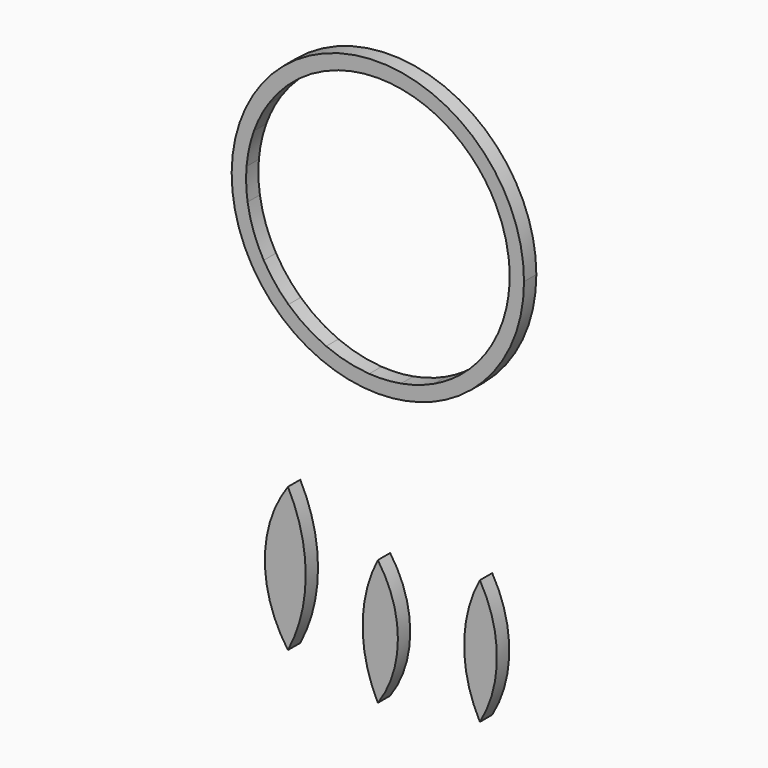
from build123d import *

# Parameters (mm, degrees)
F1_DEPTH = 3.175


with BuildPart() as f1:
    # F0 (on Front) → F1 (new body, symmetric)
    with BuildSketch(Plane.XZ):
        with BuildLine():
            ThreePointArc((33.319275, -50.236809), (53.115258, -28.50755), (60.28193, 0))
            ThreePointArc((60.28193, 0), (-28.030333, 53.368638), (-34.21443, -49.63148))
            ThreePointArc((-34.21443, -49.63148), (-17.916887, -57.557764), (0, -60.28193))
            ThreePointArc((0, -60.28193), (17.400277, -57.716041), (33.319275, -50.236809))
        make_face()
        with BuildLine():
            ThreePointArc((53.945255, 6.533473), (54.240819, 3.272677), (54.339459, 0))
            ThreePointArc((54.339459, 0), (54.004608, -6.023217), (53.004181, -11.972201))
            ThreePointArc((53.004181, -11.972201), (50.605522, -19.795402), (47.059352, -27.16973))
            ThreePointArc((47.059352, -27.16973), (41.218477, -35.409236), (33.953687, -42.425511))
            ThreePointArc((33.953687, -42.425511), (28.71879, -46.130336), (23.083863, -49.192602))
            ThreePointArc((23.083863, -49.192602), (16.468537, -51.783821), (9.571686, -53.489809))
            ThreePointArc((9.571686, -53.489809), (3.023552, -54.255276), (-3.569088, -54.222121))
            ThreePointArc((-3.569088, -54.222121), (-12.620889, -52.853477), (-21.314474, -49.984698))
            ThreePointArc((-21.314474, -49.984698), (-29.5247, -45.618735), (-36.870321, -39.916867))
            ThreePointArc((-36.870321, -39.916867), (-42.446082, -33.927967), (-47.059352, -27.16973))
            ThreePointArc((-47.059352, -27.16973), (-51.274536, -17.99163), (-53.718414, -8.192))
            ThreePointArc((-53.718414, -8.192), (-54.309438, -1.806034), (-54.143975, 4.60509))
            ThreePointArc((-54.143975, 4.60509), (-53.080373, 11.629739), (-51.109377, 18.455581))
            ThreePointArc((-51.109377, 18.455581), (-48.498223, 24.509165), (-45.173191, 30.201981))
            ThreePointArc((-45.173191, 30.201981), (-39.462009, 37.356749), (-32.630782, 43.451225))
            ThreePointArc((-32.630782, 43.451225), (-24.744633, 48.378507), (-16.133861, 51.889068))
            ThreePointArc((-16.133861, 51.889068), (-8.15944, 53.723369), (0, 54.339459))
            ThreePointArc((0, 54.339459), (10.056059, 53.400866), (19.764726, 50.617511))
            ThreePointArc((19.764726, 50.617511), (25.590648, 47.93637), (31.060112, 44.587513))
            ThreePointArc((31.060112, 44.587513), (36.611836, 40.154082), (41.53769, 35.034228))
            ThreePointArc((41.53769, 35.034228), (45.474671, 29.746111), (48.742278, 24.02014))
            ThreePointArc((48.742278, 24.02014), (52.082898, 15.496728), (53.945255, 6.533473))
        make_face(mode=Mode.SUBTRACT)
        with BuildLine():
            ThreePointArc((42.082019, -165.769756), (49.118165, -140.040727), (42.082019, -114.311698))
            Line((42.082019, -114.311698), (42.082019, -165.769756))
        make_face()
        with BuildLine():
            Line((42.082019, -165.769756), (42.082019, -114.311698))
            ThreePointArc((42.082019, -114.311698), (35.581437, -140.040727), (42.082019, -165.769756))
        make_face()
        with BuildLine():
            ThreePointArc((0, -172.535151), (8.274315, -146.617264), (0, -120.699376))
            Line((0, -120.699376), (0, -172.535151))
        make_face()
        with BuildLine():
            Line((0, -172.535151), (0, -120.699376))
            ThreePointArc((0, -120.699376), (-6.272042, -146.617264), (0, -172.535151))
        make_face()
        with BuildLine():
            ThreePointArc((-37.078679, -165.431485), (-29.746765, -135.792916), (-37.078679, -106.154348))
            Line((-37.078679, -106.154348), (-37.078679, -165.431485))
        make_face()
        with BuildLine():
            Line((-37.078679, -165.431485), (-37.078679, -106.154348))
            ThreePointArc((-37.078679, -106.154348), (-46.598041, -135.792916), (-37.078679, -165.431485))
        make_face()
    extrude(amount=F1_DEPTH, both=True)


solid = f1.part
